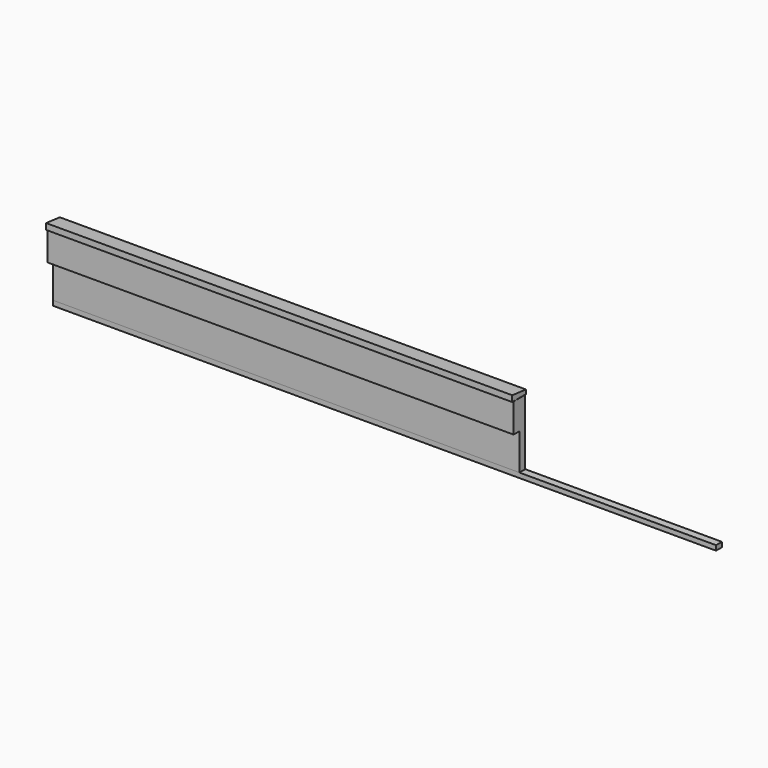
from build123d import *

# Parameters (mm, degrees)
F3_DEPTH = 6400
F4_DEPTH = 6400
F2_W     = 100.719914
F2_H     = 66.671669
F5_DEPTH = 9100


with BuildPart() as f3:
    # F0 (on Right) → F3 (new body)
    with BuildSketch(Plane.YZ):
        Polygon((-100, 105.07169), (-100, -294.92831), (0, -294.92831), (0, -794.92831), (100, -794.92831), (100, -294.92831), (100, 105.07169), align=None)
    extrude(amount=F3_DEPTH)


with BuildPart() as f4:
    # F1 (on Right) → F4 (new body)
    with BuildSketch(Plane.YZ):
        Polygon((-123.028347, 190.082815), (-123.028347, 107.28091), (112.476942, 107.28091), (112.476942, 163.945827), align=None)
    extrude(amount=F4_DEPTH)


with BuildPart() as f5:
    # F2 (on Right) → F5 (new body)
    with BuildSketch(Plane.YZ):
        with Locations((50.359957, -827.845842)):
            Rectangle(F2_W, F2_H)
    extrude(amount=F5_DEPTH)


solid = Compound([f3.part, f4.part, f5.part])
